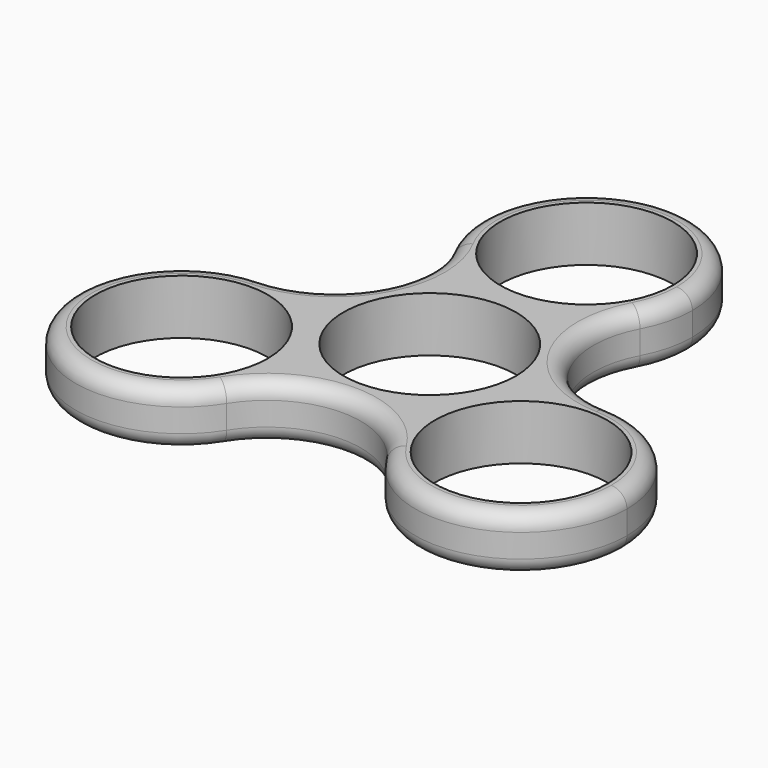
from build123d import *

# Parameters (mm, degrees)
F0_R     = 11
F1_DEPTH = 7
F2_R     = 2


with BuildPart() as f1:
    # F0 (on Top) → F1 (new body)
    with BuildSketch(Plane.XY):
        with BuildLine():
            ThreePointArc((11.907836, 18.639698), (13.095911, 21.721722), (13.5, 25))
            ThreePointArc((13.5, 25), (-3.278278, 38.095911), (-11.907836, 18.639698))
            ThreePointArc((-11.907836, 18.639698), (0, 11.5), (11.907836, 18.639698))
        make_face()
        with Locations((0, 25)):
            Circle(F0_R, mode=Mode.SUBTRACT)
        with BuildLine():
            ThreePointArc((11.907836, 18.639698), (0, 11.5), (-11.907836, 18.639698))
            ThreePointArc((-11.907836, 18.639698), (-12.100275, 6.986097), (-22.09637, 0.992639))
            ThreePointArc((-22.09637, 0.992639), (-12.263607, -2.797747), (-8.150635, -12.5))
            ThreePointArc((-8.150635, -12.5), (-8.670104, -16.208884), (-10.188534, -19.632338))
            ThreePointArc((-10.188534, -19.632338), (0, -13.972194), (10.188534, -19.632338))
            ThreePointArc((10.188534, -19.632338), (9.959292, -5.75), (22.09637, 0.992639))
            ThreePointArc((22.09637, 0.992639), (12.100275, 6.986097), (11.907836, 18.639698))
        make_face()
        Circle(F0_R, mode=Mode.SUBTRACT)
        with BuildLine():
            ThreePointArc((-8.150635, -12.5), (-12.263607, -2.797747), (-22.09637, 0.992639))
            ThreePointArc((-22.09637, 0.992639), (-33.341978, -19.25), (-10.188534, -19.632338))
            ThreePointArc((-10.188534, -19.632338), (-8.670104, -16.208884), (-8.150635, -12.5))
        make_face()
        with Locations((-21.650635, -12.5)):
            Circle(F0_R, mode=Mode.SUBTRACT)
        with BuildLine():
            ThreePointArc((35.150635, -12.5), (31.352888, -3.112972), (22.09637, 0.992639))
            ThreePointArc((22.09637, 0.992639), (9.959292, -5.75), (10.188534, -19.632338))
            ThreePointArc((10.188534, -19.632338), (25.359519, -25.480531), (35.150635, -12.5))
        make_face()
        with Locations((21.650635, -12.5)):
            Circle(F0_R, mode=Mode.SUBTRACT)
    extrude(amount=F1_DEPTH)

    # F2
    f2_edges = [f1.edges().sort_by_distance(p)[0] for p in [
        (-33.341978, -19.25, 7),
        (-33.341978, -19.25, 0),
    ]]
    fillet(f2_edges, radius=F2_R)


solid = f1.part
